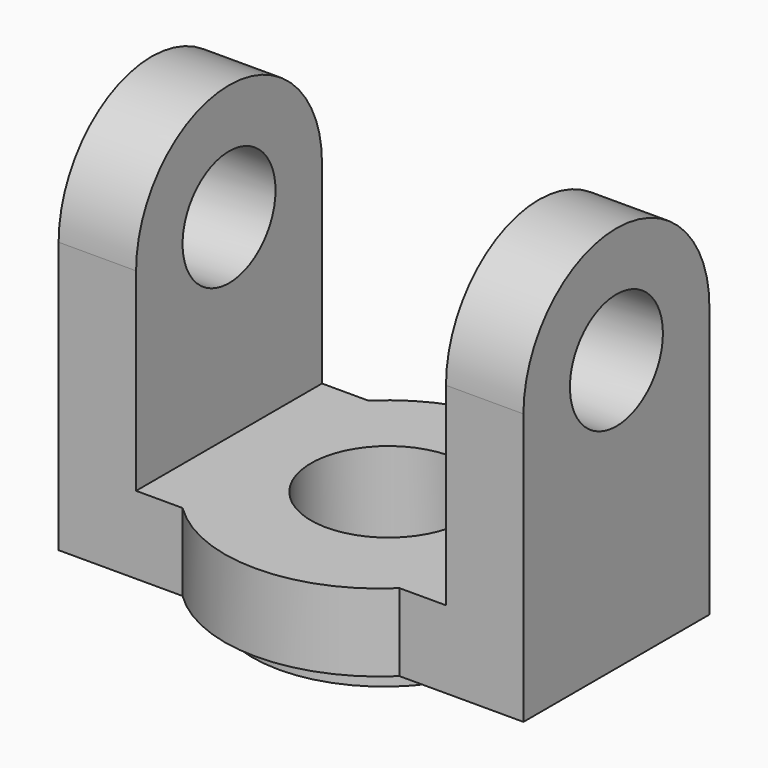
from build123d import *

# Parameters (mm, degrees)
F1_DEPTH  = 30
F3_DEPTH  = 60
F4_R      = 7.5
F5_DEPTH  = 60.001
F6_W      = 40
F6_H      = 40
F7_DEPTH  = 30.001
F8_R      = 17
F9_DEPTH  = 13
F11_DEPTH = 10
F12_R     = 10
F13_DEPTH = 13.001


with BuildPart() as f1:
    # F0 (on Front) → F1 (new body)
    with BuildSketch(Plane.XZ):
        Polygon((0, 35), (0, 0), (60, 0), (60, 35), (50, 35), (50, 10), (10, 10), (10, 35), align=None)
    extrude(amount=F1_DEPTH)

    # F2 (on Right) → F3 (join)
    with BuildSketch(Plane.YZ):
        with BuildLine():
            Line((-30, 35), (0, 35))
            ThreePointArc((0, 35), (-15, 50), (-30, 35))
        make_face()
    extrude(amount=F3_DEPTH)

    # F4 (on face) → F5 (cut, through all)
    with BuildSketch(Plane.YZ.offset(60)):
        with Locations((-15, 35)):
            Circle(F4_R)
    extrude(amount=-F5_DEPTH, mode=Mode.SUBTRACT)

    # F6 (on Front) → F7 (cut, through all)
    with BuildSketch(Plane.XZ):
        with Locations((30, 30)):
            Rectangle(F6_W, F6_H)
    extrude(amount=F7_DEPTH, mode=Mode.SUBTRACT)

    # F8 (on face) → F9 (join)
    with BuildSketch(Plane.XY.offset(10)):
        with Locations((30, -15)):
            Circle(F8_R)
    extrude(amount=-F9_DEPTH)

    # F10 (on face) → F11 (join)
    with BuildSketch(Plane.XY.offset(10)):
        with BuildLine():
            Line((16, 0), (44, 0))
            ThreePointArc((44, 0), (30, 5.717143), (16, 0))
        make_face()
        with BuildLine():
            Line((44, -30), (16, -30))
            ThreePointArc((16, -30), (30, -35.717143), (44, -30))
        make_face()
    extrude(amount=-F11_DEPTH)

    # F12 (on face) → F13 (cut, through all)
    with BuildSketch(Plane.XY.offset(10)):
        with Locations((30, -14.282857)):
            Circle(F12_R)
    extrude(amount=-F13_DEPTH, mode=Mode.SUBTRACT)


solid = f1.part
